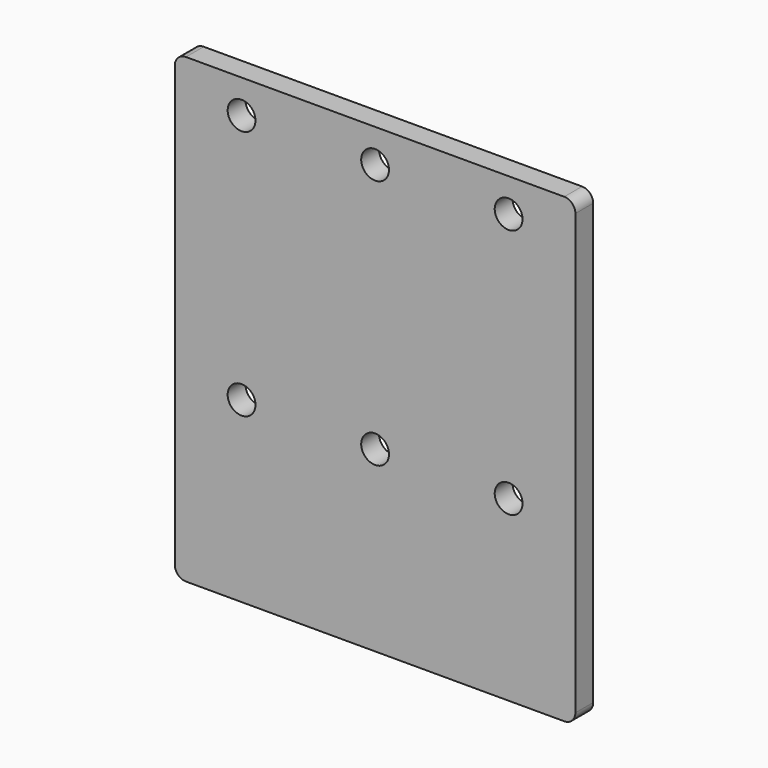
from build123d import *

# Parameters (mm, degrees)
F0_R     = 7.9375
F1_DEPTH = 12.7


with BuildPart() as f1:
    # F0 (on Front) → F1 (new body)
    with BuildSketch(Plane.XZ):
        with BuildLine():
            ThreePointArc((0, 6.35), (1.859872, 1.859872), (6.35, 0))
            Line((6.35, 0), (222.25, 0))
            ThreePointArc((222.25, 0), (226.740128, 1.859872), (228.6, 6.35))
            Line((228.6, 6.35), (228.6, 257.175))
            ThreePointArc((228.6, 257.175), (226.740128, 261.665128), (222.25, 263.525))
            Line((222.25, 263.525), (6.35, 263.525))
            ThreePointArc((6.35, 263.525), (1.859872, 261.665128), (0, 257.175))
            Line((0, 257.175), (0, 6.35))
        make_face()
        with Locations((38.1, 101.6)):
            Circle(F0_R, mode=Mode.SUBTRACT)
        with Locations((114.3, 101.6)):
            Circle(F0_R, mode=Mode.SUBTRACT)
        with Locations((190.5, 101.6)):
            Circle(F0_R, mode=Mode.SUBTRACT)
        with Locations((38.1, 244.475)):
            Circle(F0_R, mode=Mode.SUBTRACT)
        with Locations((114.3, 244.475)):
            Circle(F0_R, mode=Mode.SUBTRACT)
        with Locations((190.5, 244.475)):
            Circle(F0_R, mode=Mode.SUBTRACT)
    extrude(amount=F1_DEPTH)


solid = f1.part
